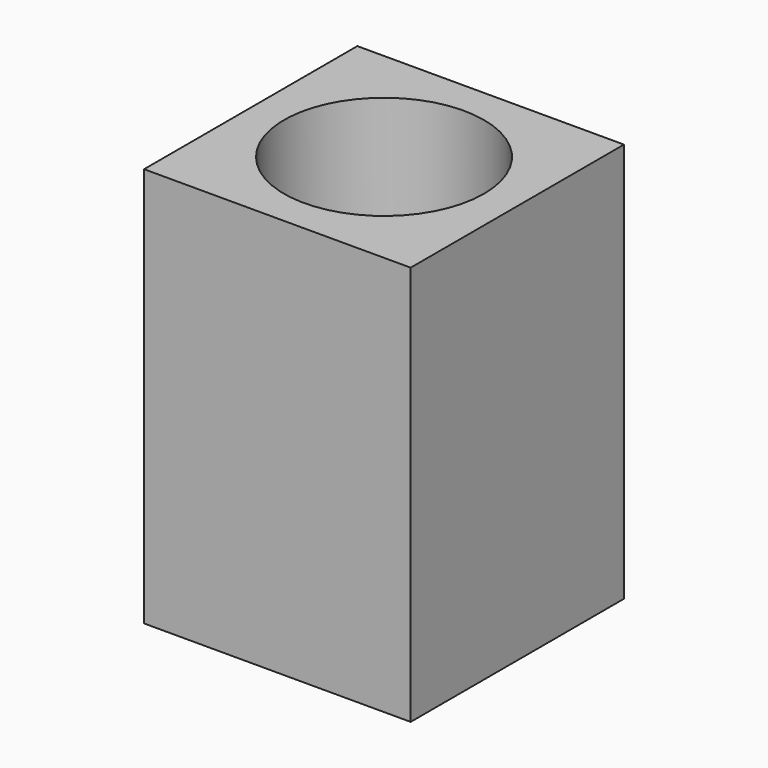
from build123d import *

# Parameters (mm, degrees)
F0_W     = 100
F0_H     = 100
F1_DEPTH = 75
F2_R     = 37.5
F3_DEPTH = 150.001


with BuildPart() as f1:
    # F0 (on Top) → F1 (new body, symmetric)
    with BuildSketch(Plane.XY):
        Rectangle(F0_W, F0_H)
    extrude(amount=F1_DEPTH, both=True)

    # F2 (on face) → F3 (cut, through all)
    with BuildSketch(Plane.XY.offset(75)):
        Circle(F2_R)
    extrude(amount=-F3_DEPTH, mode=Mode.SUBTRACT)


solid = f1.part
